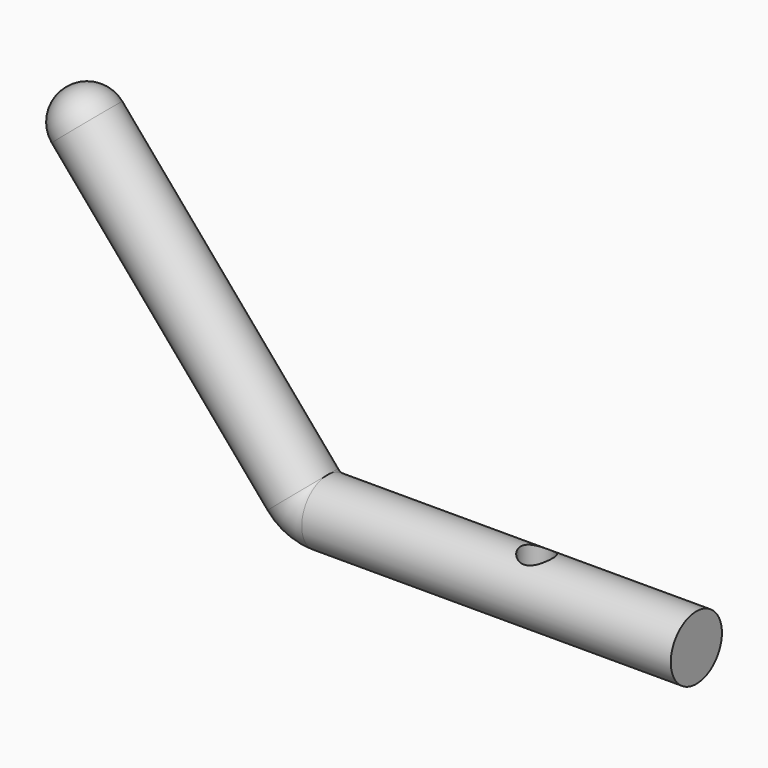
from build123d import *

# Parameters (mm, degrees)
F2_R     = 5
F7_D     = 5
F7_DEPTH = 6
F7_TIP   = 1.5021515476
F8_R     = 5


with BuildPart() as f3:
    # F3: sweep along a path in F0
    with BuildLine(Plane.XZ) as f3_path:
        Line((60, 0), (2.307932585, 0))
        ThreePointArc((2.307932585, 0), (0.212461852, 0.4602860875), (-1.497202471, 1.7563990372))
        Line((-1.497202471, 1.7563990372), (-38.4974752497, 45.1621806509))
    # F2 (on offset) → F3 (sweep)
    with BuildSketch(Plane.YZ.offset(60)):
        Circle(F2_R)
    sweep(path=f3_path.line)

    # F7
    with Locations(Plane.XY.offset(5)):
        with Locations((35.039074719, 0)):
            Hole(F7_D / 2, depth=F7_DEPTH)
            with Locations((0, 0, -(F7_DEPTH + F7_TIP / 2))):  # 118° drill point
                Cone(0, F7_D / 2, F7_TIP, mode=Mode.SUBTRACT)

    # F8
    f8_edges = [f3.edges().sort_by_distance(p)[0] for p in [
        (-38.497475, -5, 45.162181),
    ]]
    fillet(f8_edges, radius=F8_R)


solid = f3.part
